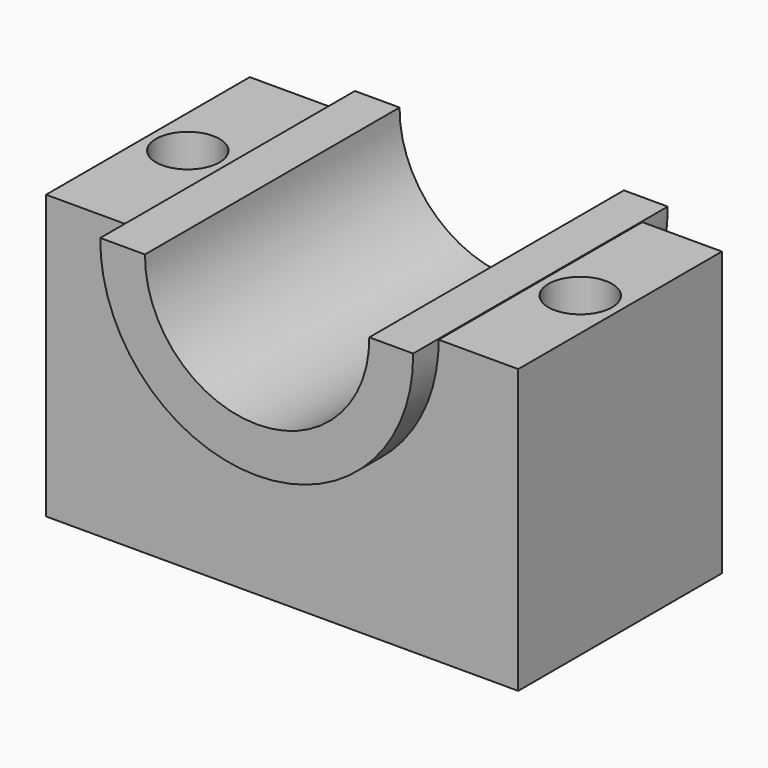
from build123d import *

# Parameters (mm, degrees)
F2_DEPTH = 40
F3_DEPTH = 50
F5_D     = 20


with BuildPart() as f2:
    # F0 (on Front) → F2 (new body, symmetric)
    with BuildSketch(Plane.XZ):
        with BuildLine():
            Line((-74.1799686244, 44.5079811746), (-74.1799686244, -44.5079811746))
            Line((-74.1799686244, -44.5079811746), (74.1799686244, -44.5079811746))
            Line((74.1799686244, -44.5079811746), (74.1799686244, 44.5079811746))
            Line((74.1799686244, 44.5079811746), (49.1799686244, 44.5079811746))
            ThreePointArc((49.1799686244, 44.5079811746), (0, -4.6719874497), (-49.1799686244, 44.5079811746))
            Line((-49.1799686244, 44.5079811746), (-74.1799686244, 44.5079811746))
        make_face()
    extrude(amount=F2_DEPTH, both=True)

    # F1 (on Front) → F3 (join, symmetric)
    with BuildSketch(Plane.XZ):
        with BuildLine():
            Line((-35.1070836186, 44.7443202138), (-49.149915576, 44.7443202138))
            ThreePointArc((-49.149915576, 44.7443202138), (-1.8626e-06, -5.0042579476), (49.1499118507, 44.7443202138))
            Line((49.1499118507, 44.7443202138), (35.3824310005, 44.7443202138))
            ThreePointArc((35.3824310005, 44.7443202138), (0.1376736909, 9.1714728244), (-35.1070836186, 44.7443202138))
        make_face()
    extrude(amount=F3_DEPTH, both=True)

    # F5 (through all)
    with Locations(Plane(origin=(0, 0, -44.5079811746), x_dir=(1, 0, 0), z_dir=(0, 0, -1))):
        with Locations((-61.6649421002, 0), (61.6649402375, 0)):
            Hole(F5_D / 2)


solid = f2.part
